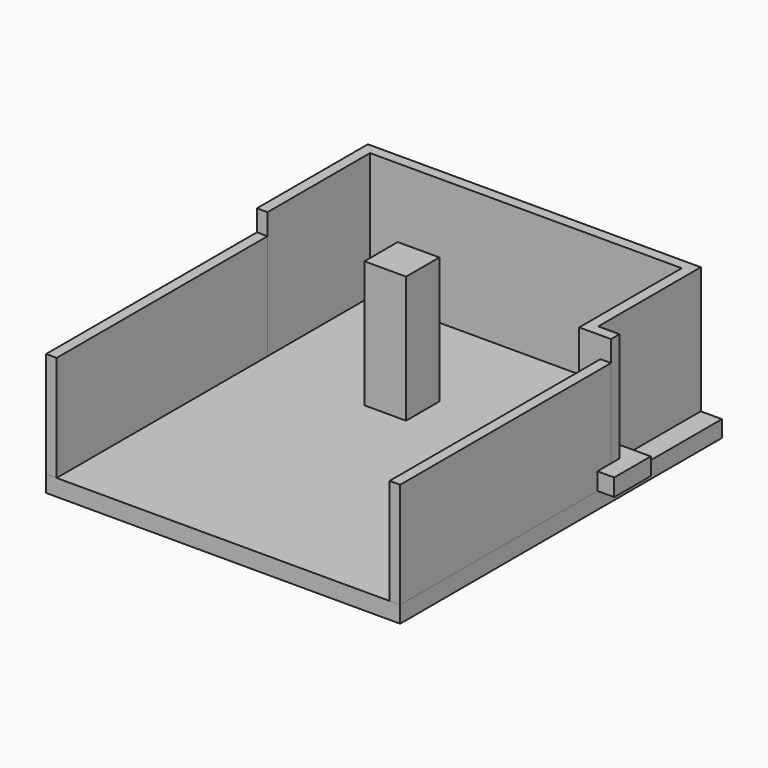
from build123d import *

# Parameters (mm, degrees)
F0_W      = 152.4
F0_H      = 3800
F1_DEPTH  = 1524
F2_W      = 5104.8
F2_H      = 3800
F3_DEPTH  = 240
F4_W      = 5104.8
F4_H      = 2000
F5_DEPTH  = 240
F6_W      = 242.3163581848
F6_H      = 658.6881875992
F6_W_2    = 681.3907693863
F7_DEPTH  = 250
F8_W      = 4495.2
F8_H      = 152.4
F8_W_2    = 304.8
F9_DEPTH  = 1828.8
F10_W     = 600
F10_H     = 600
F11_DEPTH = 1828.8


with BuildPart() as f1:
    # F0 (on Top) → F1 (new body)
    with BuildSketch(Plane.XY):
        with Locations((-2476.2, 0)):
            Rectangle(F0_W, F0_H)
    extrude(amount=F1_DEPTH)


with BuildPart() as f1b:
    # F0 (on Top) → F1, piece 2 (new body)
    with BuildSketch(Plane.XY):
        with Locations((2476.2, 0)):
            Rectangle(F0_W, F0_H)
    extrude(amount=F1_DEPTH)


with BuildPart() as f3:
    # F2 (on face) → F3 (new body)
    with BuildSketch(Plane(origin=(0, 0, 0), x_dir=(1, 0, 0), z_dir=(0, 0, -1))):
        Rectangle(F2_W, F2_H)
    extrude(amount=F3_DEPTH)

    # F4 (on face) → F5 (join, through all)
    with BuildSketch(Plane(origin=(0, 0, -240), x_dir=(1, 0, 0), z_dir=(0, 0, -1))):
        with Locations((0, -2900)):
            Rectangle(F4_W, F4_H)
    extrude(amount=-F5_DEPTH)

    # F10 (on face) → F11 (join, through all)
    with BuildSketch(Plane.XY):
        with Locations((-500, 1947.6)):
            Rectangle(F10_W, F10_H)
    extrude(amount=F11_DEPTH)


with BuildPart() as f7:
    # F6 (on face) → F7 (new body)
    with BuildSketch(Plane.XY):
        with Locations((2673.5581790924, 1985.6271147728)):
            Rectangle(F6_W, F6_H)
        with Locations((2211.7046153069, 1985.6271147728)):
            Rectangle(F6_W_2, F6_H)
    extrude(amount=F7_DEPTH)


with BuildPart() as f9:
    # F8 (on face) → F9 (new body)
    with BuildSketch(Plane.XY):
        Polygon((-2552.4, 3900), (-2552.4, 1900), (-2400, 1900), (-2400, 3747.6), (-2400, 3900), align=None)
        with Locations((-152.4, 3823.8)):
            Rectangle(F8_W, F8_H)
        Polygon((2095.2, 3900), (2095.2, 3747.6), (2095.2, 1900), (2247.6, 1900), (2247.6, 2052.4), (2247.6, 3900), align=None)
        with Locations((2400, 1976.2)):
            Rectangle(F8_W_2, F8_H)
    extrude(amount=F9_DEPTH)


solid = Compound([f1.part, f1b.part, f3.part, f7.part, f9.part])
